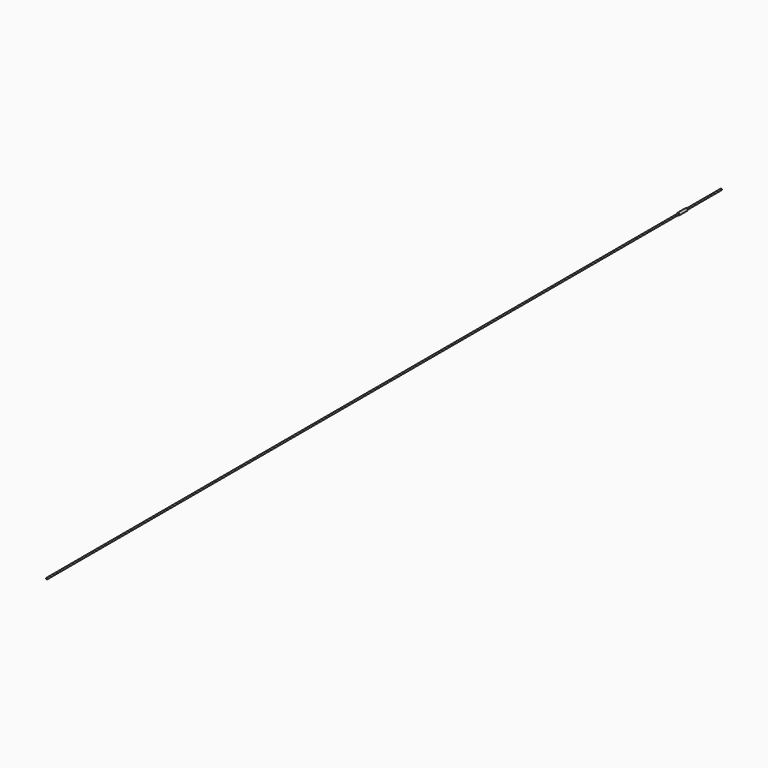
from build123d import *

# Parameters (mm, degrees)
F0_R     = 0.4318
F0_R_2   = 0.3556
F1_DEPTH = 508
F3_R     = 0.762
F4_DEPTH = 6.096


with BuildPart() as f1:
    # F0 (on Front) → F1 (new body)
    with BuildSketch(Plane.XZ):
        Circle(F0_R)
        Circle(F0_R_2, mode=Mode.SUBTRACT)
    extrude(amount=F1_DEPTH)

    # F3 (on offset) → F4 (join)
    with BuildSketch(Plane.XZ.offset(26.3398)):
        Circle(F3_R)
    extrude(amount=F4_DEPTH)


solid = f1.part
